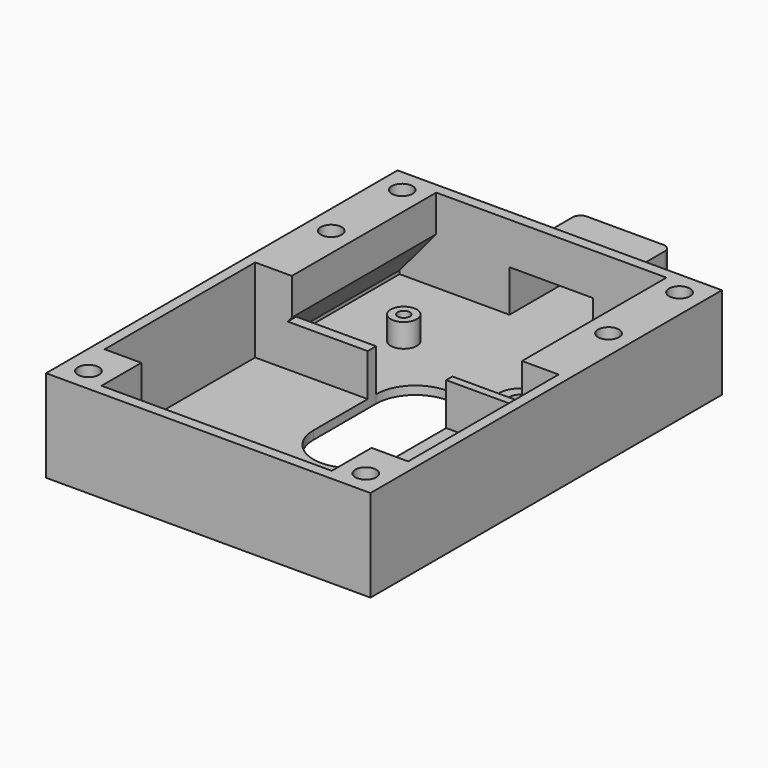
from build123d import *

# Parameters (mm, degrees)
SKETCH_W        = 62
SKETCH_H        = 83.956
PAD_DEPTH       = 1.6
SKETCH001_W     = 62
SKETCH001_H     = 83.956
SKETCH001_W_2   = 58
SKETCH001_H_2   = 79.956
PAD001_DEPTH    = 17.6
PAD002_DEPTH    = 41.978
SKETCH003_R     = 4
SKETCH003_R_2   = 2
SKETCH003_R_3   = 2.5
SKETCH003_R_4   = 1.15
PAD003_DEPTH    = 6.1
PAD004_START    = -10
PAD004_DEPTH    = 5
SKETCH005_W     = 21.5
SKETCH005_H     = 1.5
SKETCH005_H_2   = 2.022
SKETCH005_W_2   = 58
PAD005_DEPTH    = 8.066667
SKETCH010_W     = 58
SKETCH010_H     = 35.956
POCKET006_DEPTH = 17.6
PAD008_DEPTH    = 11.2
SKETCH012_W     = 16
SKETCH012_H     = 8
POCKET003_DEPTH = 16
SKETCH013_R     = 2
POCKET004_DEPTH = 8


with BuildPart() as part:
    # Sketch → Pad (new body)
    with BuildSketch(Plane.XY):
        Rectangle(SKETCH_W, SKETCH_H)
        with BuildLine():
            ThreePointArc((7.5, 7.5), (0, 15), (-7.5, 7.5))
            Line((-7.5, 7.5), (-7.5, -7.5))
            ThreePointArc((-7.5, -7.5), (0, -15), (7.5, -7.5))
            Line((7.5, -7.5), (7.5, 7.5))
        make_face(mode=Mode.SUBTRACT)
    extrude(amount=PAD_DEPTH)

    # Sketch001 → Pad001 (join)
    with BuildSketch(Plane.XY):
        Rectangle(SKETCH001_W, SKETCH001_H)
        Rectangle(SKETCH001_W_2, SKETCH001_H_2, mode=Mode.SUBTRACT)
    extrude(amount=PAD001_DEPTH)

    # Sketch002 → Pad002 (join, symmetric)
    with BuildSketch(Plane.XZ):
        Polygon((-29, 17.6), (-29, 2.257725), (-22, 10.6), (-22, 17.6), align=None)
        Polygon((22, 17.6), (22, 10.6), (29, 2.257725), (29, 17.6), align=None)
    extrude(amount=PAD002_DEPTH, both=True)

    # Sketch003 → Pad003 (join)
    with BuildSketch(Plane.XY):
        with Locations((16, 34.478)):
            Circle(SKETCH003_R)
        with Locations((16, 34.478)):
            Circle(SKETCH003_R_2, mode=Mode.SUBTRACT)
        with Locations((16, 12.478)):
            Circle(SKETCH003_R)
        with Locations((16, 12.478)):
            Circle(SKETCH003_R_2, mode=Mode.SUBTRACT)
        with Locations((-15, 23.478)):
            Circle(SKETCH003_R_3)
        with Locations((-15, 23.478)):
            Circle(SKETCH003_R_4, mode=Mode.SUBTRACT)
    extrude(amount=PAD003_DEPTH)

    # Sketch004 → Pad004 (join)
    with BuildSketch(Plane.YZ.offset(PAD004_START)):
        Polygon((-30.978, 0), (-30.978, 4.1), (-39.978, 4.1), (-39.978, 3.1), (-31.978, 3.1), (-31.978, 0), align=None)
    extrude(amount=-PAD004_DEPTH)

    # Sketch005 → Pad005 (join)
    with BuildSketch(Plane.XY.offset(1.6)):
        with Locations((18.25, 6.228)):
            Rectangle(SKETCH005_W, SKETCH005_H)
        with Locations((-18.25, 6.489)):
            Rectangle(SKETCH005_W, SKETCH005_H_2)
        with Locations((0, -31.228)):
            Rectangle(SKETCH005_W_2, SKETCH005_H)
    extrude(amount=PAD005_DEPTH)

    # Sketch010 → Pocket006 (cut)
    with BuildSketch(Plane.XY.offset(1.6)):
        with Locations((0, -12.5)):
            Rectangle(SKETCH010_W, SKETCH010_H)
    extrude(amount=POCKET006_DEPTH, mode=Mode.SUBTRACT)

    # Sketch011 → Pad008 (join)
    with BuildSketch(Plane.XY):
        with BuildLine():
            Line((-10.3, 41.978), (10.3, 41.978))
            ThreePointArc((8.8, 43.478), (9.23934, 42.41734), (10.3, 41.978))
            Line((8.8, 56.078), (8.8, 43.478))
            ThreePointArc((8.8, 56.078), (8.36066, 57.13866), (7.3, 57.578))
            Line((-7.3, 57.578), (7.3, 57.578))
            ThreePointArc((-7.3, 57.578), (-8.36066, 57.13866), (-8.8, 56.078))
            Line((-8.8, 56.078), (-8.8, 43.478))
            ThreePointArc((-10.3, 41.978), (-9.23934, 42.41734), (-8.8, 43.478))
        make_face()
    extrude(amount=PAD008_DEPTH)

    # Sketch012 → Pocket003 (cut)
    with BuildSketch(Plane(origin=(0, 39.978, 0), x_dir=(-1, 0, 0), z_dir=(0, 1, 0))):
        with Locations((0, 5.6)):
            Rectangle(SKETCH012_W, SKETCH012_H)
    extrude(amount=POCKET003_DEPTH, mode=Mode.SUBTRACT)

    # Sketch013 (on DatumPlane) → Pocket004 (cut)
    with BuildSketch(Plane.XY.offset(17.6)):
        with Locations((-26.5, 37.478)):
            Circle(SKETCH013_R)
        with Locations((-26.5, -37.478)):
            Circle(SKETCH013_R)
        with Locations((26.5, -37.478)):
            Circle(SKETCH013_R)
        with Locations((26.5, 37.478)):
            Circle(SKETCH013_R)
        with Locations((-26.5, 20.522)):
            Circle(SKETCH013_R)
        with Locations((26.5, 20.522)):
            Circle(SKETCH013_R)
    extrude(amount=-POCKET004_DEPTH, mode=Mode.SUBTRACT)


with BuildPart() as part_1:
    # Body placement: moved
    add(part.part.moved(Location((0, 0, -45))))


solid = part_1.part
